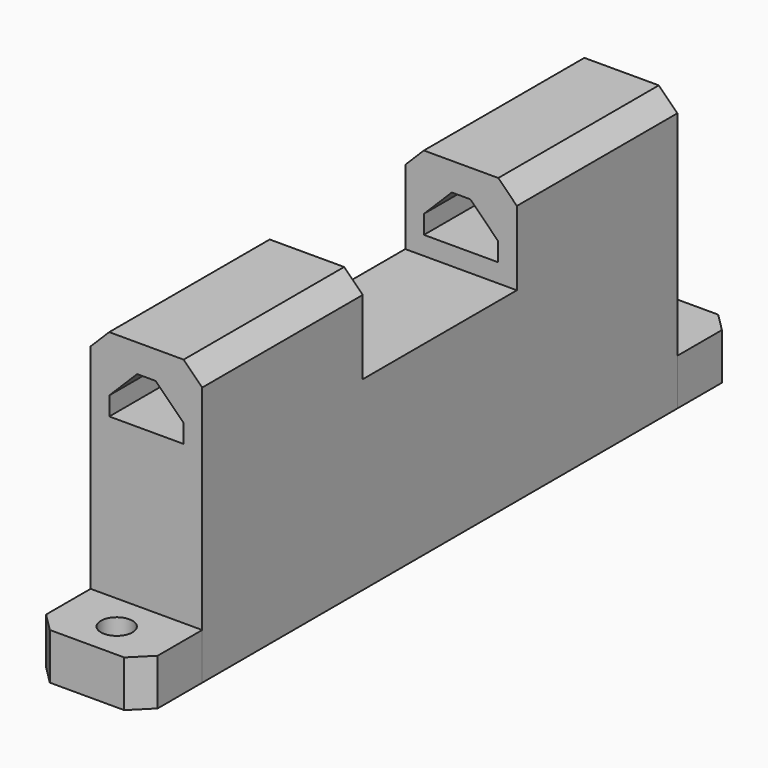
from build123d import *

# Parameters (mm, degrees)
F0_W     = 12.022123
F0_H     = 8
F0_R     = 1.7
F1_DEPTH = 5
F2_DEPTH = 30
F3_DEPTH = 20
F4_W     = 8
F4_H     = 5
F5_DEPTH = 72.001
F6_SIZE  = 3
F7_SIZE  = 2


with BuildPart() as f1:
    # F0 (on Top) → F1 (new body)
    with BuildSketch(Plane.XY):
        with Locations((35.656364, -18.254959)):
            Rectangle(F0_W, F0_H)
        with Locations((35.656365, -18.254959)):
            Circle(F0_R, mode=Mode.SUBTRACT)
        Polygon((41.667426, -22.254959), (29.645303, -22.254959), (29.645303, -43.874378), (35.656365, -43.874378), (41.667426, -43.874378), align=None)
        Polygon((35.656365, -43.874378), (29.645303, -43.874378), (29.645303, -54.254959), (29.645303, -64.63554), (35.656365, -64.63554), (41.667426, -64.63554), (41.667426, -54.254959), (41.667426, -43.874378), align=None)
        Polygon((35.656365, -64.63554), (29.645303, -64.63554), (29.645303, -86.254959), (41.667426, -86.254959), (41.667426, -64.63554), align=None)
        with Locations((35.656364, -90.254959)):
            Rectangle(F0_W, F0_H)
        with Locations((35.656365, -90.254959)):
            Circle(F0_R, mode=Mode.SUBTRACT)
    extrude(amount=F1_DEPTH)

    # F0 (on Top) → F2 (join)
    with BuildSketch(Plane.XY):
        Polygon((41.667426, -22.254959), (29.645303, -22.254959), (29.645303, -43.874378), (35.656365, -43.874378), (41.667426, -43.874378), align=None)
        Polygon((35.656365, -64.63554), (29.645303, -64.63554), (29.645303, -86.254959), (41.667426, -86.254959), (41.667426, -64.63554), align=None)
    extrude(amount=F2_DEPTH)

    # F0 (on Top) → F3 (join)
    with BuildSketch(Plane.XY):
        Polygon((35.656365, -43.874378), (29.645303, -43.874378), (29.645303, -54.254959), (29.645303, -64.63554), (35.656365, -64.63554), (41.667426, -64.63554), (41.667426, -54.254959), (41.667426, -43.874378), align=None)
    extrude(amount=F3_DEPTH)

    # F4 (on face) → F5 (cut, through all)
    with BuildSketch(Plane.XZ.offset(86.254959)):
        with Locations((35.656365, 24.5)):
            Rectangle(F4_W, F4_H)
    extrude(amount=-F5_DEPTH, mode=Mode.SUBTRACT)

    # F6
    f6_edges = [f1.edges().sort_by_distance(p)[0] for p in [
        (31.656365, -75.44525, 27),
        (31.656365, -33.064669, 27),
        (39.656365, -75.44525, 27),
        (39.656365, -33.064669, 27),
    ]]
    chamfer(f6_edges, length=F6_SIZE)

    # F7
    f7_edges = [f1.edges().sort_by_distance(p)[0] for p in [
        (29.645303, -94.254959, 2.5),
        (41.667426, -94.254959, 2.5),
        (29.645303, -14.254959, 2.5),
        (41.667426, -14.254959, 2.5),
        (41.667426, -33.064669, 30),
        (29.645303, -33.064669, 30),
        (29.645303, -75.44525, 30),
        (41.667426, -75.44525, 30),
    ]]
    chamfer(f7_edges, length=F7_SIZE)


solid = f1.part
